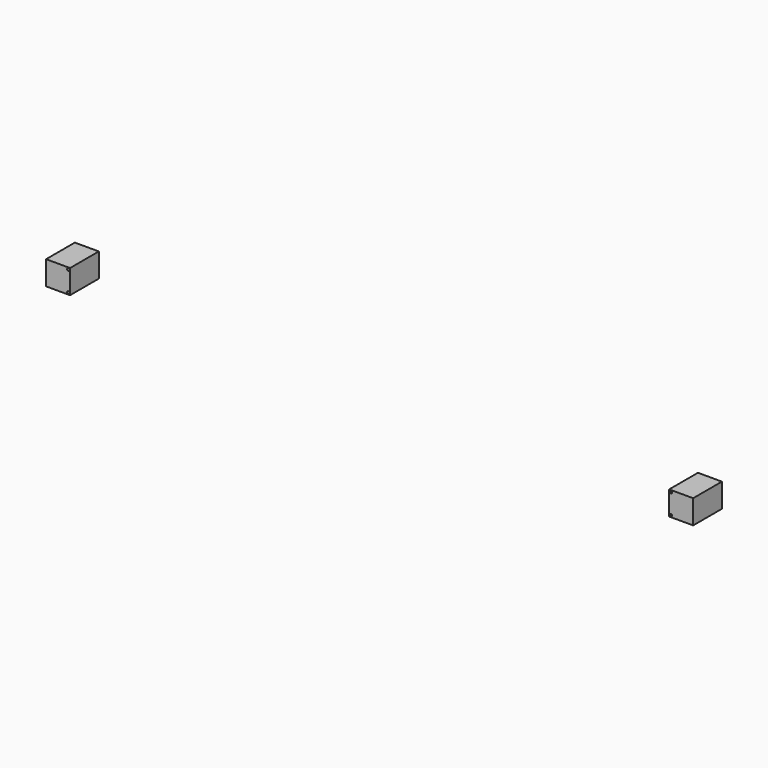
from build123d import *

# Parameters (mm, degrees)
F0_W     = 40
F0_H     = 40
F1_DEPTH = 60
F3_D     = 4
F3_DEPTH = 4
F3_TIP   = 1.2017212381
F5_D     = 4
F5_DEPTH = 4
F5_TIP   = 1.2017212381


with BuildPart() as f1:
    # F0 (on Front) → F1 (new body)
    with BuildSketch(Plane.XZ):
        with Locations((-76.0227025953, 2.8278025426)):
            Rectangle(F0_W, F0_H)
    extrude(amount=F1_DEPTH)

    # F5
    with Locations(Plane.XZ.offset(60)):
        with Locations((-59.0227025953, 19.8278025426), (-59.0227025953, -14.1721974574)):
            Hole(F5_D / 2, depth=F5_DEPTH)
            with Locations((0, 0, -(F5_DEPTH + F5_TIP / 2))):  # 118° drill point
                Cone(0, F5_D / 2, F5_TIP, mode=Mode.SUBTRACT)


with BuildPart() as f1b:
    # F0 (on Front) → F1, piece 2 (new body)
    with BuildSketch(Plane.XZ):
        with Locations((963.9772974047, 2.8278025426)):
            Rectangle(F0_W, F0_H)
    extrude(amount=F1_DEPTH)

    # F3
    with Locations(Plane.XZ.offset(60)):
        with Locations((946.9772974047, 19.8278025426), (946.9772974047, -14.1721974574)):
            Hole(F3_D / 2, depth=F3_DEPTH)
            with Locations((0, 0, -(F3_DEPTH + F3_TIP / 2))):  # 118° drill point
                Cone(0, F3_D / 2, F3_TIP, mode=Mode.SUBTRACT)


solid = Compound([f1.part, f1b.part])
